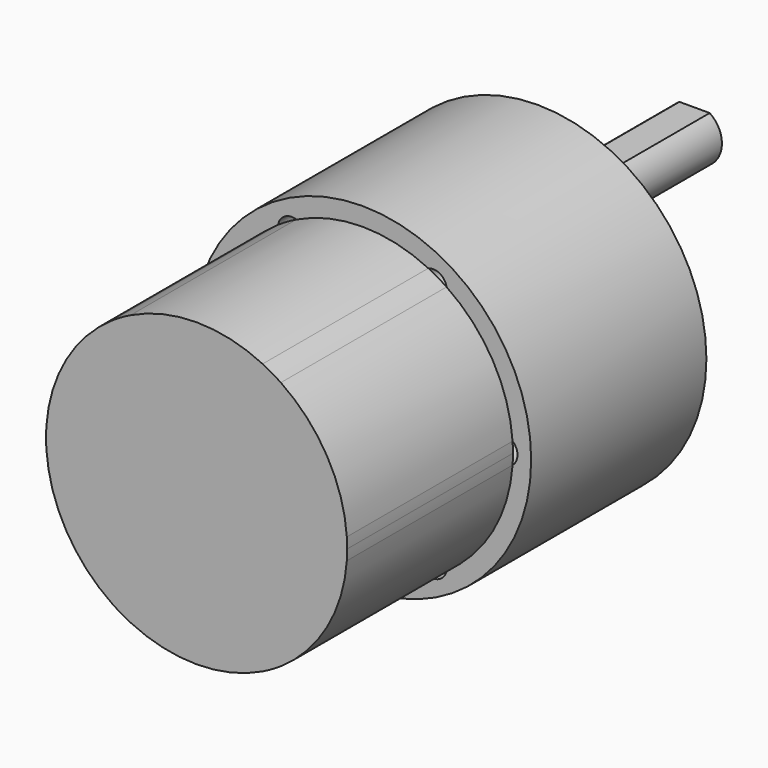
from build123d import *

# Parameters (mm, degrees)
F0_R     = 18.5
F0_R_2   = 1.5
F0_R_3   = 6
F0_R_4   = 3
F1_DEPTH = 24
F2_DEPTH = 21.5
F3_DEPTH = 6
F5_DEPTH = 12
F7_DEPTH = 22.7


with BuildPart() as f1:
    # F0 (on Front) → F1 (new body)
    with BuildSketch(Plane.XZ):
        Circle(F0_R)
        with Locations((-7.75, -13.4233937587)):
            Circle(F0_R_2, mode=Mode.SUBTRACT)
        with Locations((7.75, -13.4233937587)):
            Circle(F0_R_2, mode=Mode.SUBTRACT)
        with Locations((-15.5, 0)):
            Circle(F0_R_2, mode=Mode.SUBTRACT)
        with Locations((-7.75, 13.4233937587)):
            Circle(F0_R_2, mode=Mode.SUBTRACT)
        with Locations((0, 7)):
            Circle(F0_R_3, mode=Mode.SUBTRACT)
        with Locations((15.5, 0)):
            Circle(F0_R_2, mode=Mode.SUBTRACT)
        with Locations((7.75, 13.4233937587)):
            Circle(F0_R_2, mode=Mode.SUBTRACT)
        with Locations((0, 7)):
            Circle(F0_R_3)
        with Locations((0, 7)):
            Circle(F0_R_4, mode=Mode.SUBTRACT)
        with Locations((0, 7)):
            Circle(F0_R_4)
    extrude(amount=F1_DEPTH)

    # F0 (on Front) → F2 (join)
    with BuildSketch(Plane.XZ):
        with Locations((0, 7)):
            Circle(F0_R_4)
    extrude(amount=-F2_DEPTH)

    # F0 (on Front) → F3 (join)
    with BuildSketch(Plane.XZ):
        with Locations((0, 7)):
            Circle(F0_R_3)
        with Locations((0, 7)):
            Circle(F0_R_4, mode=Mode.SUBTRACT)
    extrude(amount=-F3_DEPTH)

    # F4 (on face) → F5 (cut)
    with BuildSketch(Plane(origin=(0, 21.5, 0), x_dir=(-1, 0, 0), z_dir=(0, 1, 0))):
        with BuildLine():
            ThreePointArc((1.6583123952, 9.5), (0, 10), (-1.6583123952, 9.5))
            Line((-1.6583123952, 9.5), (1.6583123952, 9.5))
        make_face()
        with BuildLine():
            Line((-2, 10.5), (-2, 9.5))
            Line((-2, 9.5), (-1.6583123952, 9.5))
            ThreePointArc((-1.6583123952, 9.5), (0, 10), (1.6583123952, 9.5))
            Line((1.6583123952, 9.5), (2, 9.5))
            Line((2, 9.5), (2, 10.5))
            Line((2, 10.5), (-2, 10.5))
        make_face()
    extrude(amount=-F5_DEPTH, mode=Mode.SUBTRACT)

    # F6 (on face) → F7 (join)
    with BuildSketch(Plane.XZ.offset(24)):
        with BuildLine():
            ThreePointArc((16.4596774194, -1.1528309723), (14, 0), (16.4596774194, 1.1528309723))
            ThreePointArc((16.4596774194, 1.1528309723), (14.2894191624, 8.25), (9.228219618, 13.6780832971))
            ThreePointArc((9.228219618, 13.6780832971), (9.2445449854, 13.5512033299), (9.25, 13.4233937587))
            ThreePointArc((9.25, 13.4233937587), (6.8920411717, 12.1929846198), (7.2314578014, 14.8309142694))
            ThreePointArc((7.2314578014, 14.8309142694), (0, 16.5), (-7.2314578014, 14.8309142694))
            ThreePointArc((-7.2314578014, 14.8309142694), (-6.5195908611, 14.2813525869), (-6.25, 13.4233937587))
            ThreePointArc((-6.25, 13.4233937587), (-7.8778095713, 11.9288487732), (-9.228219618, 13.6780832971))
            ThreePointArc((-9.228219618, 13.6780832971), (-14.2894191624, 8.25), (-16.4596774194, 1.1528309723))
            ThreePointArc((-16.4596774194, 1.1528309723), (-14.8634138428, 1.3582187101), (-14, 0))
            ThreePointArc((-14, 0), (-14.8634138428, -1.3582187101), (-16.4596774194, -1.1528309723))
            ThreePointArc((-16.4596774194, -1.1528309723), (-14.2894191624, -8.25), (-9.228219618, -13.6780832971))
            ThreePointArc((-9.228219618, -13.6780832971), (-7.8778095713, -11.9288487732), (-6.25, -13.4233937587))
            ThreePointArc((-6.25, -13.4233937587), (-6.5195908611, -14.2813525869), (-7.2314578014, -14.8309142694))
            ThreePointArc((-7.2314578014, -14.8309142694), (0, -16.5), (7.2314578014, -14.8309142694))
            ThreePointArc((7.2314578014, -14.8309142694), (6.8920411717, -12.1929846198), (9.25, -13.4233937587))
            ThreePointArc((9.25, -13.4233937587), (9.2445449854, -13.5512033299), (9.228219618, -13.6780832971))
            ThreePointArc((9.228219618, -13.6780832971), (14.2894191624, -8.25), (16.4596774194, -1.1528309723))
        make_face()
        with BuildLine():
            ThreePointArc((9.25, 13.4233937587), (9.2445449854, 13.5512033299), (9.228219618, 13.6780832971))
            ThreePointArc((9.228219618, 13.6780832971), (8.25, 14.2894191624), (7.2314578014, 14.8309142694))
            ThreePointArc((7.2314578014, 14.8309142694), (6.8920411717, 12.1929846198), (9.25, 13.4233937587))
        make_face()
        with BuildLine():
            ThreePointArc((-6.25, 13.4233937587), (-6.5195908611, 14.2813525869), (-7.2314578014, 14.8309142694))
            ThreePointArc((-7.2314578014, 14.8309142694), (-8.25, 14.2894191624), (-9.228219618, 13.6780832971))
            ThreePointArc((-9.228219618, 13.6780832971), (-7.8778095713, 11.9288487732), (-6.25, 13.4233937587))
        make_face()
        with BuildLine():
            ThreePointArc((16.4596774194, -1.1528309723), (16.4899162736, -0.5767679692), (16.5, 0))
            ThreePointArc((16.5, 0), (16.4899162736, 0.5767679692), (16.4596774194, 1.1528309723))
            ThreePointArc((16.4596774194, 1.1528309723), (14, 0), (16.4596774194, -1.1528309723))
        make_face()
        with BuildLine():
            ThreePointArc((-14, 0), (-14.8634138428, 1.3582187101), (-16.4596774194, 1.1528309723))
            ThreePointArc((-16.4596774194, 1.1528309723), (-16.5, 0), (-16.4596774194, -1.1528309723))
            ThreePointArc((-16.4596774194, -1.1528309723), (-14.8634138428, -1.3582187101), (-14, 0))
        make_face()
        with BuildLine():
            ThreePointArc((-9.228219618, -13.6780832971), (-8.25, -14.2894191624), (-7.2314578014, -14.8309142694))
            ThreePointArc((-7.2314578014, -14.8309142694), (-6.5195908611, -14.2813525869), (-6.25, -13.4233937587))
            ThreePointArc((-6.25, -13.4233937587), (-7.8778095713, -11.9288487732), (-9.228219618, -13.6780832971))
        make_face()
        with BuildLine():
            ThreePointArc((7.2314578014, -14.8309142694), (8.25, -14.2894191624), (9.228219618, -13.6780832971))
            ThreePointArc((9.228219618, -13.6780832971), (9.2445449854, -13.5512033299), (9.25, -13.4233937587))
            ThreePointArc((9.25, -13.4233937587), (6.8920411717, -12.1929846198), (7.2314578014, -14.8309142694))
        make_face()
    extrude(amount=F7_DEPTH)


solid = f1.part
